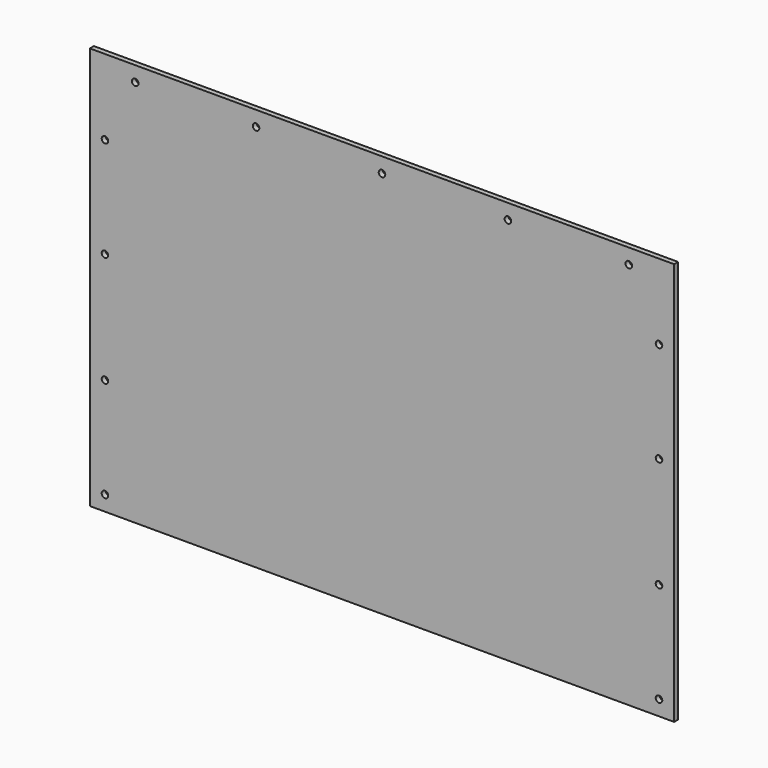
from build123d import *

# Parameters (mm, degrees)
F0_W     = 580
F0_H     = 400
F0_R     = 3.25
F1_DEPTH = 5


with BuildPart() as f1:
    # F0 (on Front) → F1 (new body)
    with BuildSketch(Plane.XZ):
        with Locations((290, 200)):
            Rectangle(F0_W, F0_H)
        with Locations((15, 15)):
            Circle(F0_R, mode=Mode.SUBTRACT)
        with Locations((15, 115)):
            Circle(F0_R, mode=Mode.SUBTRACT)
        with Locations((565, 15)):
            Circle(F0_R, mode=Mode.SUBTRACT)
        with Locations((565, 115)):
            Circle(F0_R, mode=Mode.SUBTRACT)
        with Locations((15, 225)):
            Circle(F0_R, mode=Mode.SUBTRACT)
        with Locations((15, 325)):
            Circle(F0_R, mode=Mode.SUBTRACT)
        with Locations((45, 385)):
            Circle(F0_R, mode=Mode.SUBTRACT)
        with Locations((165, 385)):
            Circle(F0_R, mode=Mode.SUBTRACT)
        with Locations((565, 225)):
            Circle(F0_R, mode=Mode.SUBTRACT)
        with Locations((290, 385)):
            Circle(F0_R, mode=Mode.SUBTRACT)
        with Locations((415, 385)):
            Circle(F0_R, mode=Mode.SUBTRACT)
        with Locations((565, 325)):
            Circle(F0_R, mode=Mode.SUBTRACT)
        with Locations((535, 385)):
            Circle(F0_R, mode=Mode.SUBTRACT)
    extrude(amount=F1_DEPTH)


solid = f1.part
